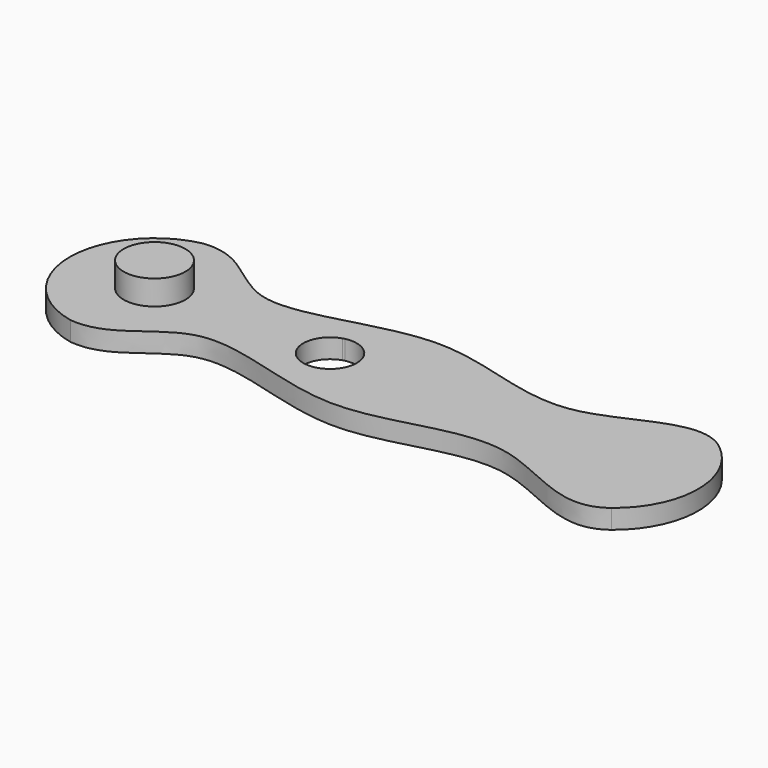
from build123d import *

# Parameters (mm, degrees)
F1_DEPTH = 2.5
F2_R     = 4
F3_DEPTH = 3.2


with BuildPart() as f1:
    # F0 (on Top) → F1 (new body)
    with BuildSketch(Plane.XY):
        with BuildLine():
            add(Edge.make_bspline(
                [(-32.0446701983, 10.7579964994), (-26.8129809933, 11.3429066389), (-20.989105106, 0.5649563812), (0.6064156678, 12.7178885285), (19.4290485286, 0.6951172825), (31.7638646772, 12.3527112005), (36.484510571, 8.697492016)],
                knots=[0, 0, 0, 0, 0.2171267084, 0.4862308404, 0.7550900065, 1, 1, 1, 1], degree=3))
            ThreePointArc((-32.0446701983, 10.7579964994), (-40.75, 0), (-32.0446701983, -10.7579964994))
            add(Edge.make_bspline(
                [(-32.0446701983, -10.7579964994), (-26.8129809933, -11.3429066389), (-20.989105106, -0.5649563812), (0.6064156678, -12.7178885285), (19.4290485286, -0.6951172825), (31.7638646772, -12.3527112005), (36.484510571, -8.697492016)],
                knots=[0, 0, 0, 0, 0.2171267084, 0.4862308404, 0.7550900065, 1, 1, 1, 1], degree=3))
            ThreePointArc((36.484510571, -8.697492016), (40.75, 0), (36.484510571, 8.697492016))
        make_face()
        with BuildLine():
            ThreePointArc((-8.2355280308, -3.2399288321), (-10.458949699, 0.1028465332), (-8.0414486856, 3.3080672601))
            ThreePointArc((-8.0414486856, 3.3080672601), (-7.9115734901, 3.3466111512), (-7.7802932918, 3.3800582358))
            ThreePointArc((-7.7802932918, 3.3800582358), (-4.8321765727, 2.7200813981), (-3.5175972469, 0))
            ThreePointArc((-3.5175972469, 0), (-4.7423498714, -2.6463724136), (-7.5524016545, -3.4254198573))
            ThreePointArc((-7.5524016545, -3.4254198573), (-7.8987051346, -3.3501318928), (-8.2355280308, -3.2399288321))
        make_face(mode=Mode.SUBTRACT)
    extrude(amount=F1_DEPTH)

    # F2 (on face) → F3 (join)
    with BuildSketch(Plane.XY.offset(2.5)):
        with Locations((-29.75, 0)):
            Circle(F2_R)
    extrude(amount=F3_DEPTH)


solid = f1.part
